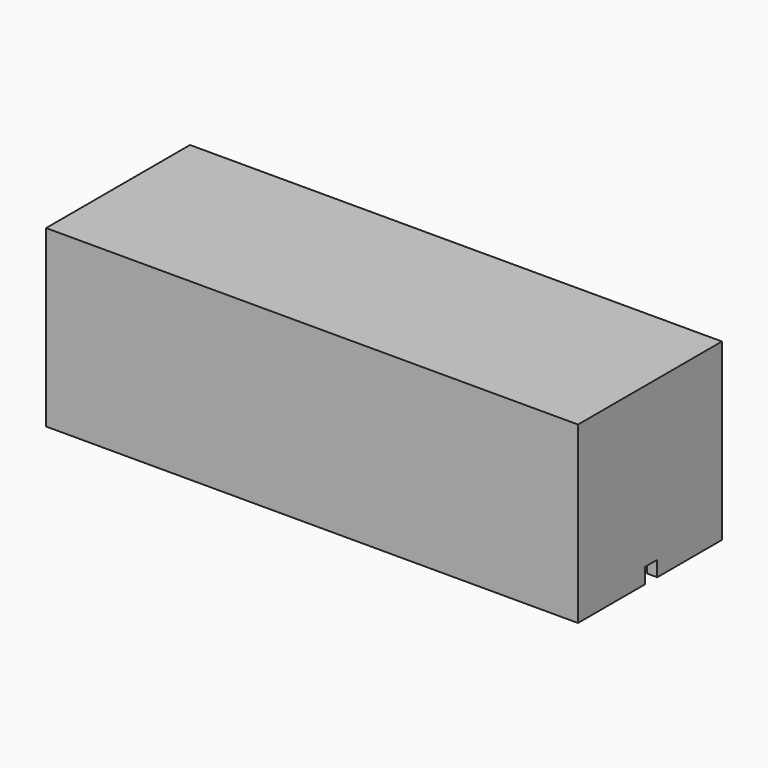
from build123d import *

# Parameters (mm, degrees)
SKETCH006_W     = 207
SKETCH006_H     = 70
PAD002_DEPTH    = 68
POCKET_DEPTH    = 65
SKETCH_W        = 7
SKETCH_H        = 5
POCKET001_DEPTH = 20
SKETCH008_W     = 6
SKETCH008_H     = 6
POCKET002_DEPTH = 10


with BuildPart() as part:
    # Sketch006 → Pad002 (new body)
    with BuildSketch(Plane.XY):
        with Locations((28.19796, -0.538714)):
            Rectangle(SKETCH006_W, SKETCH006_H)
    extrude(amount=PAD002_DEPTH)

    # Sketch007 (on Face5 of Pad002) → Pocket (cut)
    with BuildSketch(Plane(origin=(0, 0, 0), x_dir=(1, 0, 0), z_dir=(0, 0, -1))):
        Polygon((-65.30204, 31.538714), (-65.30204, 25.538714), (-71.30204, 25.538714), (-71.30204, -24.461286), (-65.30204, -24.461286), (-65.30204, -30.461286), (121.69796, -30.461286), (121.69796, -24.461286), (127.69796, -24.461286), (127.69796, 25.538714), (121.69796, 25.538714), (121.69796, 31.538714), align=None)
    extrude(amount=-POCKET_DEPTH, mode=Mode.SUBTRACT)

    # Sketch (on Face4 of Pad002) → Pocket001 (cut)
    with BuildSketch(Plane(origin=(-75.30204, 0, 0), x_dir=(0, -1, 0), z_dir=(-1, 0, 0))):
        with Locations((-13.5, 32.5)):
            Rectangle(SKETCH_W, SKETCH_H)
        with Locations((13.5, 32.5)):
            Rectangle(SKETCH_W, SKETCH_H)
    extrude(amount=-POCKET001_DEPTH, mode=Mode.SUBTRACT)

    # Sketch008 (on Face2 of Pad002) → Pocket002 (cut)
    with BuildSketch(Plane.YZ.offset(131.69796)):
        with Locations((0, 3)):
            Rectangle(SKETCH008_W, SKETCH008_H)
    extrude(amount=-POCKET002_DEPTH, mode=Mode.SUBTRACT)


solid = part.part
